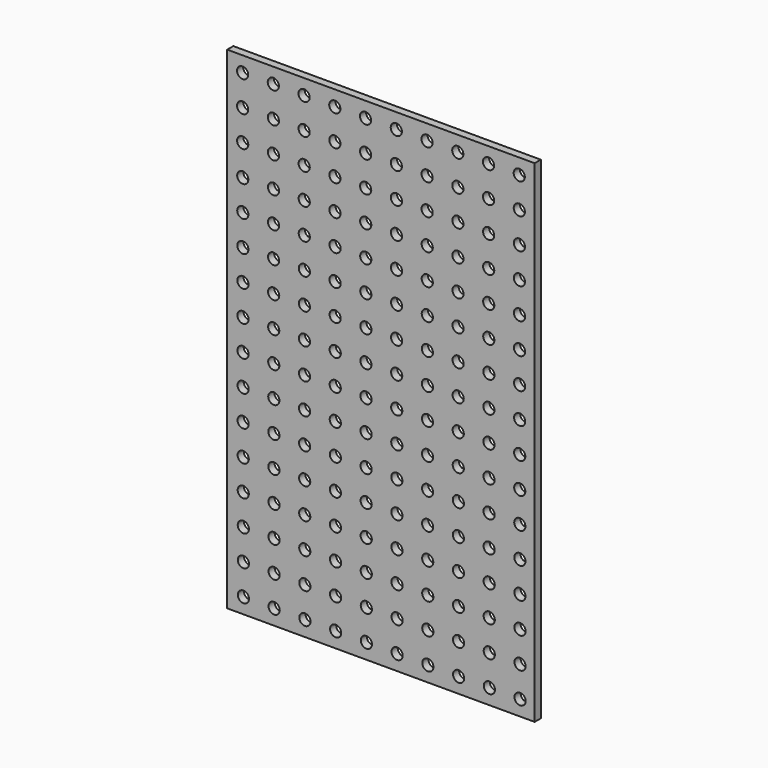
from build123d import *

# Parameters (mm, degrees)
F0_W     = 127
F0_H     = 203.2
F0_R     = 2.3114
F1_DEPTH = 3.175


with BuildPart() as f1:
    # F0 (on Front) → F1 (new body)
    with BuildSketch(Plane.XZ):
        with Locations((9.113945, -2.776101)):
            Rectangle(F0_W, F0_H)
        with Locations((-47.692905, -98.025792)):
            Circle(F0_R, mode=Mode.SUBTRACT)
        with Locations((-47.715781, -85.325813)):
            Circle(F0_R, mode=Mode.SUBTRACT)
        with Locations((-34.992905, -98.025792)):
            Circle(F0_R, mode=Mode.SUBTRACT)
        with Locations((-35.015781, -85.325813)):
            Circle(F0_R, mode=Mode.SUBTRACT)
        with Locations((-47.738658, -72.625833)):
            Circle(F0_R, mode=Mode.SUBTRACT)
        with Locations((-47.761535, -59.925854)):
            Circle(F0_R, mode=Mode.SUBTRACT)
        with Locations((-35.038658, -72.625833)):
            Circle(F0_R, mode=Mode.SUBTRACT)
        with Locations((-35.061535, -59.925854)):
            Circle(F0_R, mode=Mode.SUBTRACT)
        with Locations((-22.292905, -98.025792)):
            Circle(F0_R, mode=Mode.SUBTRACT)
        with Locations((-9.592905, -98.025792)):
            Circle(F0_R, mode=Mode.SUBTRACT)
        with Locations((-22.315781, -85.325813)):
            Circle(F0_R, mode=Mode.SUBTRACT)
        with Locations((-9.615781, -85.325813)):
            Circle(F0_R, mode=Mode.SUBTRACT)
        with Locations((3.107095, -98.025792)):
            Circle(F0_R, mode=Mode.SUBTRACT)
        with Locations((3.084219, -85.325813)):
            Circle(F0_R, mode=Mode.SUBTRACT)
        with Locations((-22.338658, -72.625833)):
            Circle(F0_R, mode=Mode.SUBTRACT)
        with Locations((-9.638658, -72.625833)):
            Circle(F0_R, mode=Mode.SUBTRACT)
        with Locations((-22.361535, -59.925854)):
            Circle(F0_R, mode=Mode.SUBTRACT)
        with Locations((-9.661535, -59.925854)):
            Circle(F0_R, mode=Mode.SUBTRACT)
        with Locations((3.061342, -72.625833)):
            Circle(F0_R, mode=Mode.SUBTRACT)
        with Locations((3.038465, -59.925854)):
            Circle(F0_R, mode=Mode.SUBTRACT)
        with Locations((-47.784411, -47.225875)):
            Circle(F0_R, mode=Mode.SUBTRACT)
        with Locations((-47.807288, -34.525895)):
            Circle(F0_R, mode=Mode.SUBTRACT)
        with Locations((-35.084411, -47.225875)):
            Circle(F0_R, mode=Mode.SUBTRACT)
        with Locations((-35.107288, -34.525895)):
            Circle(F0_R, mode=Mode.SUBTRACT)
        with Locations((-47.830165, -21.825916)):
            Circle(F0_R, mode=Mode.SUBTRACT)
        with Locations((-47.853042, -9.125936)):
            Circle(F0_R, mode=Mode.SUBTRACT)
        with Locations((-35.130165, -21.825916)):
            Circle(F0_R, mode=Mode.SUBTRACT)
        with Locations((-35.153042, -9.125936)):
            Circle(F0_R, mode=Mode.SUBTRACT)
        with Locations((-22.384411, -47.225875)):
            Circle(F0_R, mode=Mode.SUBTRACT)
        with Locations((-9.684411, -47.225875)):
            Circle(F0_R, mode=Mode.SUBTRACT)
        with Locations((-22.407288, -34.525895)):
            Circle(F0_R, mode=Mode.SUBTRACT)
        with Locations((-9.707288, -34.525895)):
            Circle(F0_R, mode=Mode.SUBTRACT)
        with Locations((3.015589, -47.225875)):
            Circle(F0_R, mode=Mode.SUBTRACT)
        with Locations((2.992712, -34.525895)):
            Circle(F0_R, mode=Mode.SUBTRACT)
        with Locations((-22.430165, -21.825916)):
            Circle(F0_R, mode=Mode.SUBTRACT)
        with Locations((-9.730165, -21.825916)):
            Circle(F0_R, mode=Mode.SUBTRACT)
        with Locations((-22.453042, -9.125936)):
            Circle(F0_R, mode=Mode.SUBTRACT)
        with Locations((-9.753042, -9.125936)):
            Circle(F0_R, mode=Mode.SUBTRACT)
        with Locations((2.969835, -21.825916)):
            Circle(F0_R, mode=Mode.SUBTRACT)
        with Locations((2.946958, -9.125936)):
            Circle(F0_R, mode=Mode.SUBTRACT)
        with Locations((15.807095, -98.025792)):
            Circle(F0_R, mode=Mode.SUBTRACT)
        with Locations((15.784219, -85.325813)):
            Circle(F0_R, mode=Mode.SUBTRACT)
        with Locations((28.507095, -98.025792)):
            Circle(F0_R, mode=Mode.SUBTRACT)
        with Locations((28.484219, -85.325813)):
            Circle(F0_R, mode=Mode.SUBTRACT)
        with Locations((15.761342, -72.625833)):
            Circle(F0_R, mode=Mode.SUBTRACT)
        with Locations((15.738465, -59.925854)):
            Circle(F0_R, mode=Mode.SUBTRACT)
        with Locations((28.461342, -72.625833)):
            Circle(F0_R, mode=Mode.SUBTRACT)
        with Locations((28.438465, -59.925854)):
            Circle(F0_R, mode=Mode.SUBTRACT)
        with Locations((41.207095, -98.025792)):
            Circle(F0_R, mode=Mode.SUBTRACT)
        with Locations((53.907095, -98.025792)):
            Circle(F0_R, mode=Mode.SUBTRACT)
        with Locations((41.184219, -85.325813)):
            Circle(F0_R, mode=Mode.SUBTRACT)
        with Locations((53.884219, -85.325813)):
            Circle(F0_R, mode=Mode.SUBTRACT)
        with Locations((66.607095, -98.025792)):
            Circle(F0_R, mode=Mode.SUBTRACT)
        with Locations((66.584219, -85.325813)):
            Circle(F0_R, mode=Mode.SUBTRACT)
        with Locations((41.161342, -72.625833)):
            Circle(F0_R, mode=Mode.SUBTRACT)
        with Locations((53.861342, -72.625833)):
            Circle(F0_R, mode=Mode.SUBTRACT)
        with Locations((41.138465, -59.925854)):
            Circle(F0_R, mode=Mode.SUBTRACT)
        with Locations((53.838465, -59.925854)):
            Circle(F0_R, mode=Mode.SUBTRACT)
        with Locations((66.561342, -72.625833)):
            Circle(F0_R, mode=Mode.SUBTRACT)
        with Locations((66.538465, -59.925854)):
            Circle(F0_R, mode=Mode.SUBTRACT)
        with Locations((15.715589, -47.225875)):
            Circle(F0_R, mode=Mode.SUBTRACT)
        with Locations((15.692712, -34.525895)):
            Circle(F0_R, mode=Mode.SUBTRACT)
        with Locations((28.415589, -47.225875)):
            Circle(F0_R, mode=Mode.SUBTRACT)
        with Locations((28.392712, -34.525895)):
            Circle(F0_R, mode=Mode.SUBTRACT)
        with Locations((15.669835, -21.825916)):
            Circle(F0_R, mode=Mode.SUBTRACT)
        with Locations((15.646958, -9.125936)):
            Circle(F0_R, mode=Mode.SUBTRACT)
        with Locations((28.369835, -21.825916)):
            Circle(F0_R, mode=Mode.SUBTRACT)
        with Locations((28.346958, -9.125936)):
            Circle(F0_R, mode=Mode.SUBTRACT)
        with Locations((41.115589, -47.225875)):
            Circle(F0_R, mode=Mode.SUBTRACT)
        with Locations((53.815589, -47.225875)):
            Circle(F0_R, mode=Mode.SUBTRACT)
        with Locations((41.092712, -34.525895)):
            Circle(F0_R, mode=Mode.SUBTRACT)
        with Locations((53.792712, -34.525895)):
            Circle(F0_R, mode=Mode.SUBTRACT)
        with Locations((66.515589, -47.225875)):
            Circle(F0_R, mode=Mode.SUBTRACT)
        with Locations((66.492712, -34.525895)):
            Circle(F0_R, mode=Mode.SUBTRACT)
        with Locations((41.069835, -21.825916)):
            Circle(F0_R, mode=Mode.SUBTRACT)
        with Locations((53.769835, -21.825916)):
            Circle(F0_R, mode=Mode.SUBTRACT)
        with Locations((41.046958, -9.125936)):
            Circle(F0_R, mode=Mode.SUBTRACT)
        with Locations((53.746958, -9.125936)):
            Circle(F0_R, mode=Mode.SUBTRACT)
        with Locations((66.469835, -21.825916)):
            Circle(F0_R, mode=Mode.SUBTRACT)
        with Locations((66.446958, -9.125936)):
            Circle(F0_R, mode=Mode.SUBTRACT)
        with Locations((-47.875918, 3.574043)):
            Circle(F0_R, mode=Mode.SUBTRACT)
        with Locations((-47.898795, 16.274022)):
            Circle(F0_R, mode=Mode.SUBTRACT)
        with Locations((-35.175918, 3.574043)):
            Circle(F0_R, mode=Mode.SUBTRACT)
        with Locations((-35.198795, 16.274022)):
            Circle(F0_R, mode=Mode.SUBTRACT)
        with Locations((-47.921672, 28.974002)):
            Circle(F0_R, mode=Mode.SUBTRACT)
        with Locations((-47.944548, 41.673981)):
            Circle(F0_R, mode=Mode.SUBTRACT)
        with Locations((-35.221672, 28.974002)):
            Circle(F0_R, mode=Mode.SUBTRACT)
        with Locations((-35.244548, 41.673981)):
            Circle(F0_R, mode=Mode.SUBTRACT)
        with Locations((-22.475918, 3.574043)):
            Circle(F0_R, mode=Mode.SUBTRACT)
        with Locations((-9.775918, 3.574043)):
            Circle(F0_R, mode=Mode.SUBTRACT)
        with Locations((-22.498795, 16.274022)):
            Circle(F0_R, mode=Mode.SUBTRACT)
        with Locations((-9.798795, 16.274022)):
            Circle(F0_R, mode=Mode.SUBTRACT)
        with Locations((2.924082, 3.574043)):
            Circle(F0_R, mode=Mode.SUBTRACT)
        with Locations((2.901205, 16.274022)):
            Circle(F0_R, mode=Mode.SUBTRACT)
        with Locations((-22.521672, 28.974002)):
            Circle(F0_R, mode=Mode.SUBTRACT)
        with Locations((-9.821672, 28.974002)):
            Circle(F0_R, mode=Mode.SUBTRACT)
        with Locations((-22.544548, 41.673981)):
            Circle(F0_R, mode=Mode.SUBTRACT)
        with Locations((-9.844548, 41.673981)):
            Circle(F0_R, mode=Mode.SUBTRACT)
        with Locations((2.878328, 28.974002)):
            Circle(F0_R, mode=Mode.SUBTRACT)
        with Locations((2.855452, 41.673981)):
            Circle(F0_R, mode=Mode.SUBTRACT)
        with Locations((-47.967425, 54.373961)):
            Circle(F0_R, mode=Mode.SUBTRACT)
        with Locations((-47.990302, 67.07394)):
            Circle(F0_R, mode=Mode.SUBTRACT)
        with Locations((-35.267425, 54.373961)):
            Circle(F0_R, mode=Mode.SUBTRACT)
        with Locations((-35.290302, 67.07394)):
            Circle(F0_R, mode=Mode.SUBTRACT)
        with Locations((-48.013178, 79.773919)):
            Circle(F0_R, mode=Mode.SUBTRACT)
        with Locations((-48.036055, 92.473899)):
            Circle(F0_R, mode=Mode.SUBTRACT)
        with Locations((-35.313178, 79.773919)):
            Circle(F0_R, mode=Mode.SUBTRACT)
        with Locations((-35.336055, 92.473899)):
            Circle(F0_R, mode=Mode.SUBTRACT)
        with Locations((-22.567425, 54.373961)):
            Circle(F0_R, mode=Mode.SUBTRACT)
        with Locations((-9.867425, 54.373961)):
            Circle(F0_R, mode=Mode.SUBTRACT)
        with Locations((-22.590302, 67.07394)):
            Circle(F0_R, mode=Mode.SUBTRACT)
        with Locations((-9.890302, 67.07394)):
            Circle(F0_R, mode=Mode.SUBTRACT)
        with Locations((2.832575, 54.373961)):
            Circle(F0_R, mode=Mode.SUBTRACT)
        with Locations((2.809698, 67.07394)):
            Circle(F0_R, mode=Mode.SUBTRACT)
        with Locations((-22.613178, 79.773919)):
            Circle(F0_R, mode=Mode.SUBTRACT)
        with Locations((-9.913178, 79.773919)):
            Circle(F0_R, mode=Mode.SUBTRACT)
        with Locations((-22.636055, 92.473899)):
            Circle(F0_R, mode=Mode.SUBTRACT)
        with Locations((-9.936055, 92.473899)):
            Circle(F0_R, mode=Mode.SUBTRACT)
        with Locations((2.786822, 79.773919)):
            Circle(F0_R, mode=Mode.SUBTRACT)
        with Locations((2.763945, 92.473899)):
            Circle(F0_R, mode=Mode.SUBTRACT)
        with Locations((15.624082, 3.574043)):
            Circle(F0_R, mode=Mode.SUBTRACT)
        with Locations((15.601205, 16.274022)):
            Circle(F0_R, mode=Mode.SUBTRACT)
        with Locations((28.324082, 3.574043)):
            Circle(F0_R, mode=Mode.SUBTRACT)
        with Locations((28.301205, 16.274022)):
            Circle(F0_R, mode=Mode.SUBTRACT)
        with Locations((15.578328, 28.974002)):
            Circle(F0_R, mode=Mode.SUBTRACT)
        with Locations((15.555452, 41.673981)):
            Circle(F0_R, mode=Mode.SUBTRACT)
        with Locations((28.278328, 28.974002)):
            Circle(F0_R, mode=Mode.SUBTRACT)
        with Locations((28.255452, 41.673981)):
            Circle(F0_R, mode=Mode.SUBTRACT)
        with Locations((41.024082, 3.574043)):
            Circle(F0_R, mode=Mode.SUBTRACT)
        with Locations((53.724082, 3.574043)):
            Circle(F0_R, mode=Mode.SUBTRACT)
        with Locations((41.001205, 16.274022)):
            Circle(F0_R, mode=Mode.SUBTRACT)
        with Locations((53.701205, 16.274022)):
            Circle(F0_R, mode=Mode.SUBTRACT)
        with Locations((66.424082, 3.574043)):
            Circle(F0_R, mode=Mode.SUBTRACT)
        with Locations((66.401205, 16.274022)):
            Circle(F0_R, mode=Mode.SUBTRACT)
        with Locations((40.978328, 28.974002)):
            Circle(F0_R, mode=Mode.SUBTRACT)
        with Locations((53.678328, 28.974002)):
            Circle(F0_R, mode=Mode.SUBTRACT)
        with Locations((40.955452, 41.673981)):
            Circle(F0_R, mode=Mode.SUBTRACT)
        with Locations((53.655452, 41.673981)):
            Circle(F0_R, mode=Mode.SUBTRACT)
        with Locations((66.378328, 28.974002)):
            Circle(F0_R, mode=Mode.SUBTRACT)
        with Locations((66.355452, 41.673981)):
            Circle(F0_R, mode=Mode.SUBTRACT)
        with Locations((15.532575, 54.373961)):
            Circle(F0_R, mode=Mode.SUBTRACT)
        with Locations((15.509698, 67.07394)):
            Circle(F0_R, mode=Mode.SUBTRACT)
        with Locations((28.232575, 54.373961)):
            Circle(F0_R, mode=Mode.SUBTRACT)
        with Locations((28.209698, 67.07394)):
            Circle(F0_R, mode=Mode.SUBTRACT)
        with Locations((15.486822, 79.773919)):
            Circle(F0_R, mode=Mode.SUBTRACT)
        with Locations((15.463945, 92.473899)):
            Circle(F0_R, mode=Mode.SUBTRACT)
        with Locations((28.186822, 79.773919)):
            Circle(F0_R, mode=Mode.SUBTRACT)
        with Locations((28.163945, 92.473899)):
            Circle(F0_R, mode=Mode.SUBTRACT)
        with Locations((40.932575, 54.373961)):
            Circle(F0_R, mode=Mode.SUBTRACT)
        with Locations((53.632575, 54.373961)):
            Circle(F0_R, mode=Mode.SUBTRACT)
        with Locations((40.909698, 67.07394)):
            Circle(F0_R, mode=Mode.SUBTRACT)
        with Locations((53.609698, 67.07394)):
            Circle(F0_R, mode=Mode.SUBTRACT)
        with Locations((66.332575, 54.373961)):
            Circle(F0_R, mode=Mode.SUBTRACT)
        with Locations((66.309698, 67.07394)):
            Circle(F0_R, mode=Mode.SUBTRACT)
        with Locations((40.886822, 79.773919)):
            Circle(F0_R, mode=Mode.SUBTRACT)
        with Locations((53.586822, 79.773919)):
            Circle(F0_R, mode=Mode.SUBTRACT)
        with Locations((40.863945, 92.473899)):
            Circle(F0_R, mode=Mode.SUBTRACT)
        with Locations((53.563945, 92.473899)):
            Circle(F0_R, mode=Mode.SUBTRACT)
        with Locations((66.286822, 79.773919)):
            Circle(F0_R, mode=Mode.SUBTRACT)
        with Locations((66.263945, 92.473899)):
            Circle(F0_R, mode=Mode.SUBTRACT)
    extrude(amount=F1_DEPTH)


solid = f1.part
